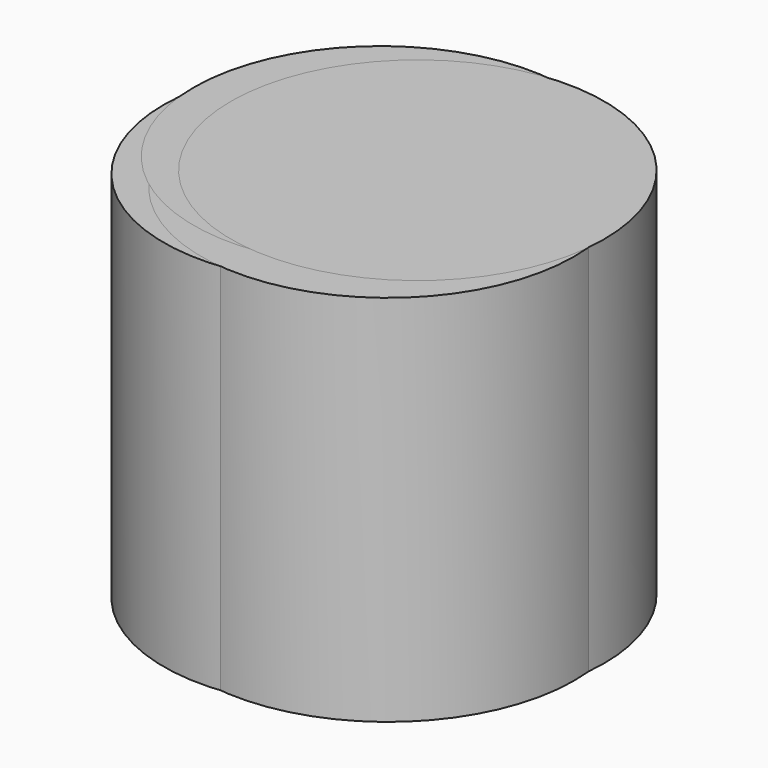
from build123d import *

# Parameters (mm, degrees)
CYLINDER001_R               = 5
CYLINDER001_DEPTH           = 10
CYLINDER001_PLACEMENT_ANGLE = 75.053
ARRAY006_X_COUNT            = 2
ARRAY006_X_PITCH            = 1
ARRAY006_Y_COUNT            = 2
ARRAY006_Y_PITCH            = 1


with BuildPart() as array006:
    # Cylinder001 → Cylinder001 (new body)
    with BuildSketch(Plane.XY):
        Circle(CYLINDER001_R)
    extrude(amount=CYLINDER001_DEPTH)


with BuildPart() as array006_1:
    # Cylinder001 placement: moved
    add(array006.part.moved(Location((33.5, 33.5, 0))).rotate(Axis((33.5, 33.5, 0), (0, 0, 1)), CYLINDER001_PLACEMENT_ANGLE))


with BuildPart() as array006_copy1:
    # Array006 X: instance of Array006
    add(array006_1.part.moved(Location(Vector(1, 0, 0) * (1 * ARRAY006_X_PITCH))))


with BuildPart() as array006_copy2:
    # Array006 Y: instance of Array006
    add(array006_1.part.moved(Location(Vector(0, 1, 0) * (1 * ARRAY006_Y_PITCH))))


with BuildPart() as array006_copy3:
    # Array006 Y: instance of Array006 copy1
    add(array006_copy1.part.moved(Location(Vector(0, 1, 0) * (1 * ARRAY006_Y_PITCH))))


solid = Compound([array006_1.part, array006_copy1.part, array006_copy2.part, array006_copy3.part])
